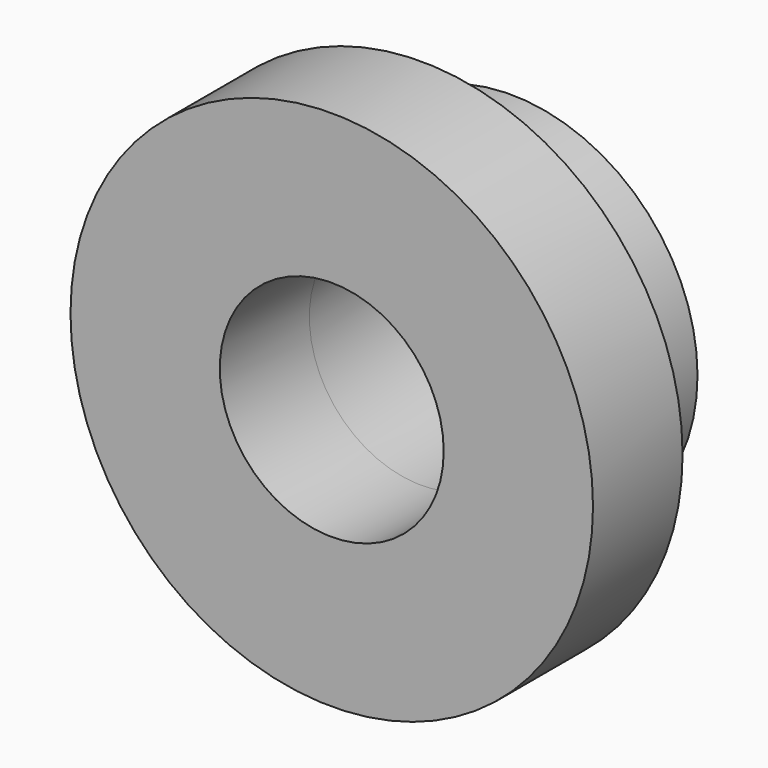
from build123d import *

# Parameters (mm, degrees)
F0_R          = 7
F0_R_2        = 5
F1_DEPTH      = 3
F0_R_3        = 3
F2_DEPTH      = 3
F2_DEPTH_BACK = 3


with BuildPart() as f1:
    # F0 (on Front) → F1 (new body)
    with BuildSketch(Plane.XZ):
        Circle(F0_R)
        Circle(F0_R_2, mode=Mode.SUBTRACT)
    extrude(amount=F1_DEPTH)

    # F0 (on Front) → F2 (join, two sides)
    with BuildSketch(Plane.XZ) as f2_sk:
        Circle(F0_R_2)
        Circle(F0_R_3, mode=Mode.SUBTRACT)
    extrude(amount=F2_DEPTH)
    extrude(f2_sk.sketch, amount=-F2_DEPTH_BACK)


solid = f1.part
